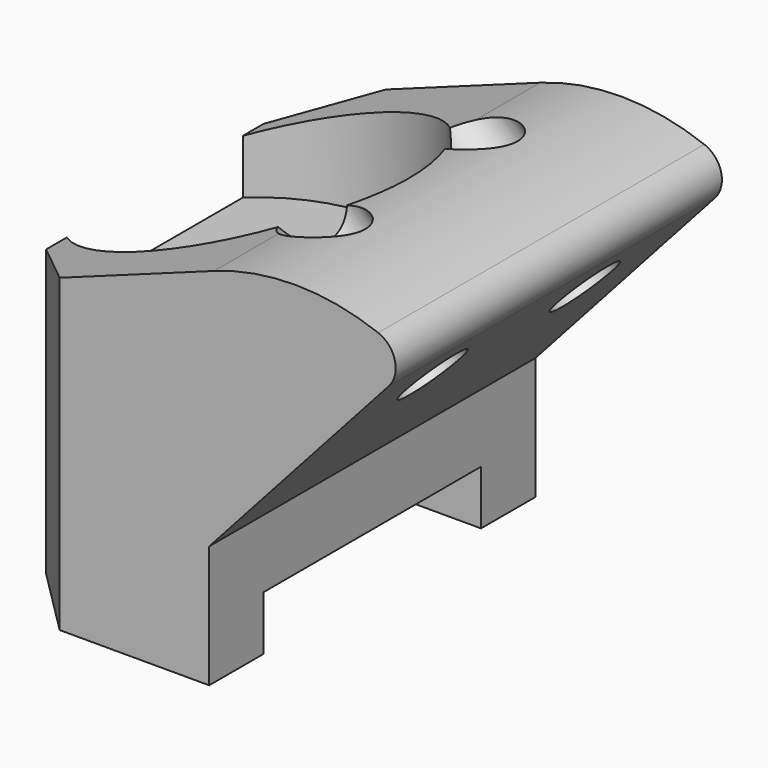
from build123d import *

# Parameters (mm, degrees)
F1_DEPTH  = 30
F2_R      = 5.05
F3_DEPTH  = 28.001
F4_W      = 16
F4_H      = 20
F4_R      = 5.05
F5_DEPTH  = 4
F7_R      = 11.1
F8_DEPTH  = 11.001
F9_SIZE   = 5
F10_R     = 2
F11_R     = 2.5
F12_DEPTH = 24.6047988697


with BuildPart() as f1:
    # F0 (on Front) → F1 (new body)
    with BuildSketch(Plane.XZ):
        with BuildLine():
            Line((-16, 0), (0, 0))
            Line((0, 0), (0, 9))
            Line((0, 9), (15, 25.6591877224))
            ThreePointArc((15, 25.6591877224), (7.8215314679, 27.9326389309), (0.3556593903, 26.9529731799))
            Line((0.3556593903, 26.9529731799), (-16, 21))
            Line((-16, 21), (-16, 0))
        make_face()
    extrude(amount=F1_DEPTH)

    # F2 (on face) → F3 (cut, through all)
    with BuildSketch(Plane(origin=(0, 0, 0), x_dir=(1, 0, 0), z_dir=(0, 0, -1))):
        with Locations((-8.4, 15)):
            Circle(F2_R)
    extrude(amount=-F3_DEPTH, mode=Mode.SUBTRACT)

    # F4 (on face) → F5 (cut)
    with BuildSketch(Plane(origin=(0, 0, 0), x_dir=(1, 0, 0), z_dir=(0, 0, -1))):
        with Locations((-8, 15)):
            Rectangle(F4_W, F4_H)
        with Locations((-8.4, 15)):
            Circle(F4_R, mode=Mode.SUBTRACT)
    extrude(amount=-F5_DEPTH, mode=Mode.SUBTRACT)

    # F7 (on offset) → F8 (cut, through all)
    with BuildSketch(Plane(origin=(0, 0, 17), x_dir=(1, 0, 0), z_dir=(0, 0, -1))):
        with Locations((-8.4, 15)):
            Circle(F7_R)
    extrude(amount=-F8_DEPTH, mode=Mode.SUBTRACT)

    # F9
    f9_edges = [f1.edges().sort_by_distance(p)[0] for p in [
        (-16, -30, 10.5),
        (-16, 0, 10.5),
    ]]
    chamfer(f9_edges, length=F9_SIZE)

    # F10
    f10_edges = [f1.edges().sort_by_distance(p)[0] for p in [
        (15, -15, 25.659188),
    ]]
    fillet(f10_edges, radius=F10_R)

    # F11 (on face) → F12 (cut, through all)
    with BuildSketch(Plane(origin=(-4.4753485292, 0, 4.0296219153), x_dir=(0, 1, 0), z_dir=(0.7431448255, 0, -0.6691306064))):
        with Locations((-22, 21.6883034293)):
            Circle(F11_R)
        with Locations((-8, 21.6883034293)):
            Circle(F11_R)
    extrude(amount=-F12_DEPTH, mode=Mode.SUBTRACT)


solid = f1.part
